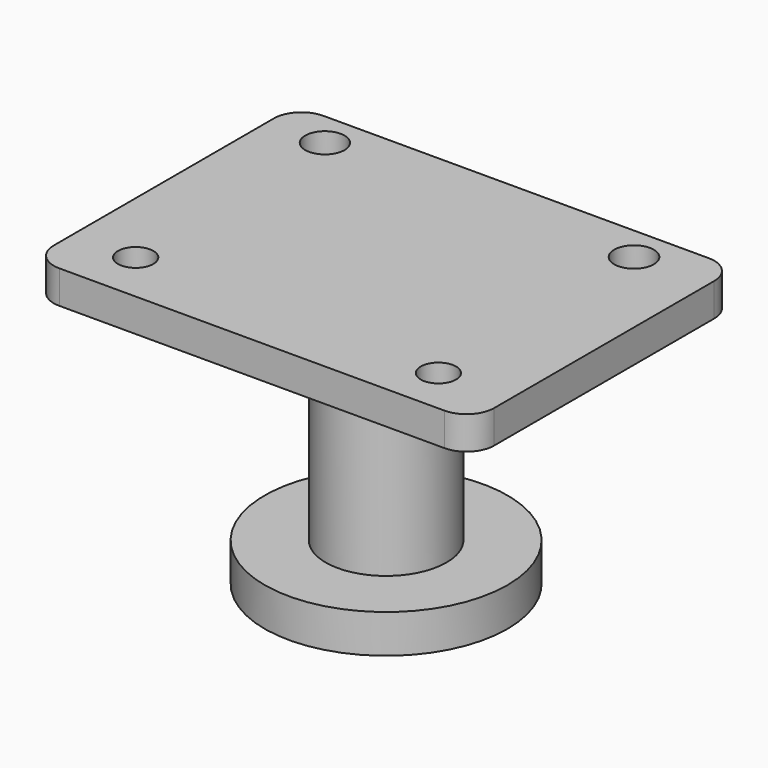
from build123d import *

# Parameters (mm, degrees)
F0_W      = 80
F0_H      = 60
F1_DEPTH  = 6
F2_R      = 5
F3_R      = 5
F4_R      = 10.973416
F5_DEPTH  = 38.5
F6_R      = 22.06519
F6_R_2    = 10.973416
F7_DEPTH  = 7
F8_R      = 3.214383
F9_DEPTH  = 6
F10_R     = 3.60115
F11_DEPTH = 6.001
F12_R     = 3.576715
F13_DEPTH = 6.001


with BuildPart() as f1:
    # F0 (on Top) → F1 (new body)
    with BuildSketch(Plane.XY):
        with Locations((-40, -23.654647)):
            Rectangle(F0_W, F0_H)
    extrude(amount=F1_DEPTH)

    # F2
    f2_edges = [f1.edges().sort_by_distance(p)[0] for p in [
        (-80, -53.654647, 3),
    ]]
    fillet(f2_edges, radius=F2_R)

    # F3
    f3_edges = [f1.edges().sort_by_distance(p)[0] for p in [
        (-80, 6.345353, 3),
        (0, 6.345353, 3),
        (0, -53.654647, 3),
    ]]
    fillet(f3_edges, radius=F3_R)

    # F4 (on face) → F5 (join)
    with BuildSketch(Plane(origin=(0, 0, 0), x_dir=(1, 0, 0), z_dir=(0, 0, -1))):
        with Locations((-40, 23.177557)):
            Circle(F4_R)
    extrude(amount=F5_DEPTH)

    # F8 (on face) → F9 (cut, through all)
    with BuildSketch(Plane(origin=(0, 0, 0), x_dir=(1, 0, 0), z_dir=(0, 0, -1))):
        with Locations((-68.620282, 44.27662)):
            Circle(F8_R)
        with Locations((-12.900943, 45.168126)):
            Circle(F8_R)
    extrude(amount=-F9_DEPTH, mode=Mode.SUBTRACT)

    # F10 (on face) → F11 (cut, through all)
    with BuildSketch(Plane(origin=(0, 0, 0), x_dir=(1, 0, 0), z_dir=(0, 0, -1))):
        with Locations((-13.495281, 0)):
            Circle(F10_R)
    extrude(amount=-F11_DEPTH, mode=Mode.SUBTRACT)

    # F12 (on face) → F13 (cut, through all)
    with BuildSketch(Plane(origin=(0, 0, 0), x_dir=(1, 0, 0), z_dir=(0, 0, -1))):
        with Locations((-69.66038, 0)):
            Circle(F12_R)
    extrude(amount=-F13_DEPTH, mode=Mode.SUBTRACT)


with BuildPart() as f7:
    # F6 (on face) → F7 (new body)
    with BuildSketch(Plane(origin=(0, 0, -38.5), x_dir=(1, 0, 0), z_dir=(0, 0, -1))):
        with Locations((-40, 23.177557)):
            Circle(F6_R)
        with Locations((-40, 23.177557)):
            Circle(F6_R_2, mode=Mode.SUBTRACT)
    extrude(amount=F7_DEPTH)


solid = Compound([f1.part, f7.part])
